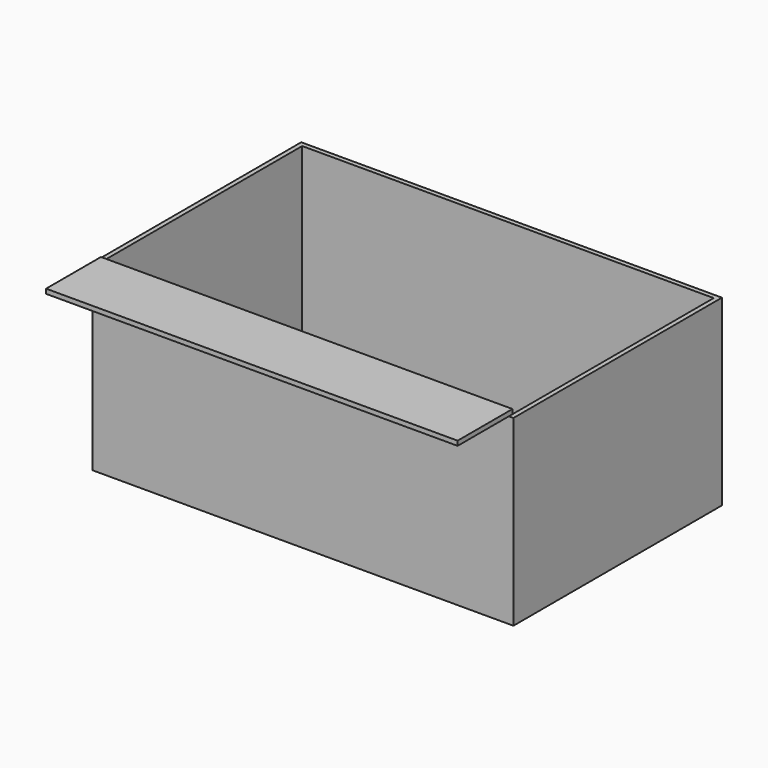
from build123d import *

# Parameters (mm, degrees)
F0_W     = 92
F0_H     = 57
F0_W_2   = 90
F0_H_2   = 55
F1_DEPTH = 40
F2_W     = 90
F2_H     = 15
F3_DEPTH = 1


with BuildPart() as f1:
    # F0 (on Top) → F1 (new body)
    with BuildSketch(Plane.XY):
        Rectangle(F0_W, F0_H)
        Rectangle(F0_W_2, F0_H_2, mode=Mode.SUBTRACT)
    extrude(amount=-F1_DEPTH)

    # F2 (on face) → F3 (join)
    with BuildSketch(Plane.XY):
        with Locations((0, -35)):
            Rectangle(F2_W, F2_H)
    extrude(amount=F3_DEPTH)


solid = f1.part
